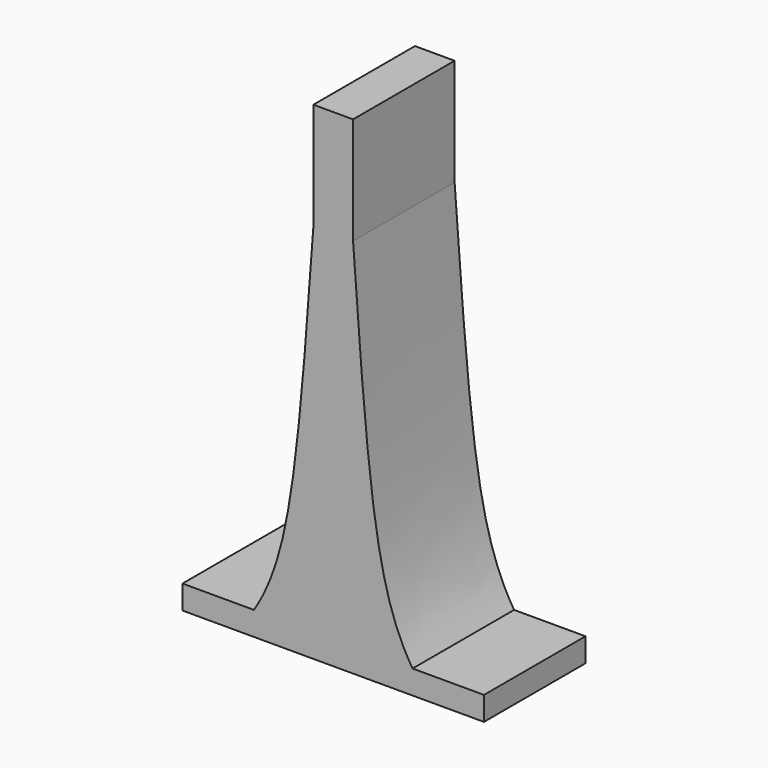
from build123d import *

# Parameters (mm, degrees)
F1_DEPTH = 32
F3_DEPTH = 32


with BuildPart() as f1:
    # F0 (on Front) → F1 (new body)
    with BuildSketch(Plane.XZ):
        Polygon((-38, -55.5), (-38, -61.5), (38, -61.5), (38, -55.5), (20, -55.5), (5, -55.5), (-5, -55.5), (-20, -55.5), align=None)
        Polygon((-5, 34.5), (-5, -55.5), (5, -55.5), (5, 34.5), (5, 61.5), (-5, 61.5), align=None)
    extrude(amount=F1_DEPTH)

    # F2 (on Front) → F3 (join)
    with BuildSketch(Plane.XZ):
        with BuildLine():
            Line((5, -55.5), (20, -55.5))
            add(Edge.make_bspline(
                [(5, 34.5), (9, -21.117978), (11, -41.342697), (20, -55.5)],
                knots=[0, 0, 0, 0, 1, 1, 1, 1], degree=3))
            Line((5, 34.5), (5, -55.5))
        make_face()
        with BuildLine():
            add(Edge.make_bspline(
                [(-5, 34.5), (-9, -21.117978), (-11, -41.342697), (-20, -55.5)],
                knots=[0, 0, 0, 0, 1, 1, 1, 1], degree=3))
            Line((-20, -55.5), (-5, -55.5))
            Line((-5, -55.5), (-5, 34.5))
        make_face()
    extrude(amount=F3_DEPTH)


solid = f1.part
